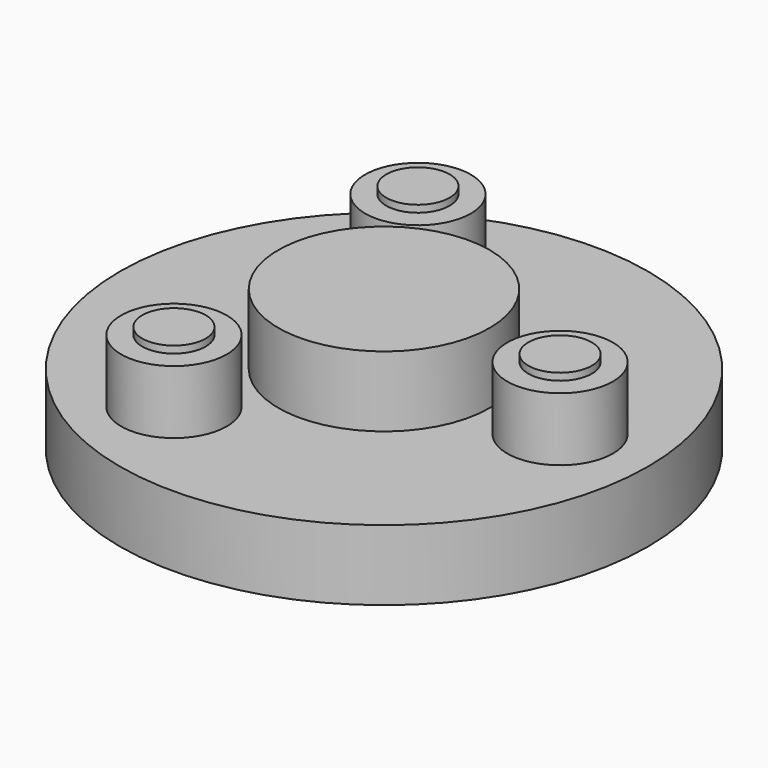
from build123d import *

# Parameters (mm, degrees)
SKETCH_1_R  = 37.5
PAD_1_DEPTH = 10
SKETCH_2_R  = 15
PAD_2_DEPTH = 10
SKETCH_3_R  = 4.5
PAD_3_DEPTH = 10
SKETCH_4_R  = 7.5
PAD_4_DEPTH = 9
SKETCH_5_R  = 4.5
PAD_5_DEPTH = 10
SKETCH_6_R  = 7.5
PAD_6_DEPTH = 9
SKETCH_7_R  = 4.5
PAD_7_DEPTH = 10
SKETCH_8_R  = 7.5
PAD_8_DEPTH = 9


with BuildPart() as part:
    # Sketch_1 → Pad_1 (new body)
    with BuildSketch(Plane.XY):
        Circle(SKETCH_1_R)
    extrude(amount=PAD_1_DEPTH)

    # Sketch_2 (on Face3 of Pad_1) → Pad_2 (join)
    with BuildSketch(Plane.XY.offset(10)):
        Circle(SKETCH_2_R)
    extrude(amount=PAD_2_DEPTH)

    # Sketch_3 (on Face3 of Pad_2) → Pad_3 (join)
    with BuildSketch(Plane.XY.offset(10)):
        with Locations((25, 0)):
            Circle(SKETCH_3_R)
    extrude(amount=PAD_3_DEPTH)

    # Sketch_4 (on Face3 of Pad_3) → Pad_4 (join)
    with BuildSketch(Plane.XY.offset(10)):
        with Locations((25, 0)):
            Circle(SKETCH_4_R)
    extrude(amount=PAD_4_DEPTH)

    # Sketch_5 (on Face3 of Pad_4) → Pad_5 (join)
    with BuildSketch(Plane.XY.offset(10)):
        with Locations((-12.5, 21.650635)):
            Circle(SKETCH_5_R)
    extrude(amount=PAD_5_DEPTH)

    # Sketch_6 (on Face3 of Pad_5) → Pad_6 (join)
    with BuildSketch(Plane.XY.offset(10)):
        with Locations((-12.5, 21.650635)):
            Circle(SKETCH_6_R)
    extrude(amount=PAD_6_DEPTH)

    # Sketch_7 (on Face3 of Pad_6) → Pad_7 (join)
    with BuildSketch(Plane.XY.offset(10)):
        with Locations((-12.5, -21.650635)):
            Circle(SKETCH_7_R)
    extrude(amount=PAD_7_DEPTH)

    # Sketch_8 (on Face3 of Pad_7) → Pad_8 (join)
    with BuildSketch(Plane.XY.offset(10)):
        with Locations((-12.5, -21.650635)):
            Circle(SKETCH_8_R)
    extrude(amount=PAD_8_DEPTH)


solid = part.part
